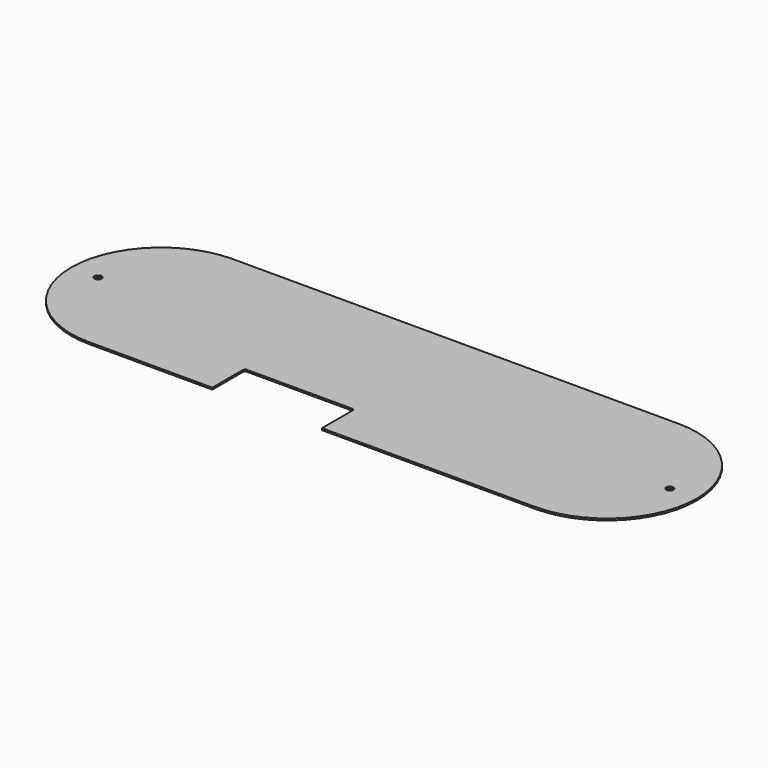
from build123d import *

# Parameters (mm, degrees)
F1_DEPTH = 2
F2_R     = 4
F2_W     = 122
F2_H     = 45
F3_DEPTH = 2
F4_R     = 2


with BuildPart() as f1:
    # F0 (on Top) → F1 (new body)
    with BuildSketch(Plane.XY):
        with BuildLine():
            Line((-248, -100), (248, -100))
            ThreePointArc((248, -100), (348, 0), (248, 100))
            Line((248, 100), (-248, 100))
            ThreePointArc((-248, 100), (-348, 0), (-248, -100))
        make_face()
    extrude(amount=F1_DEPTH)

    # F2 (on face) → F3 (cut, through all)
    with BuildSketch(Plane.XY.offset(2)):
        with Locations((318, 0)):
            Circle(F2_R)
        with Locations((-318, 0)):
            Circle(F2_R)
        with Locations((-50, -77.5)):
            Rectangle(F2_W, F2_H)
    extrude(amount=-F3_DEPTH, mode=Mode.SUBTRACT)

    # F4
    f4_edges = [f1.edges().sort_by_distance(p)[0] for p in [
        (11, -55, 1),
        (-111, -55, 1),
    ]]
    fillet(f4_edges, radius=F4_R)


solid = f1.part
